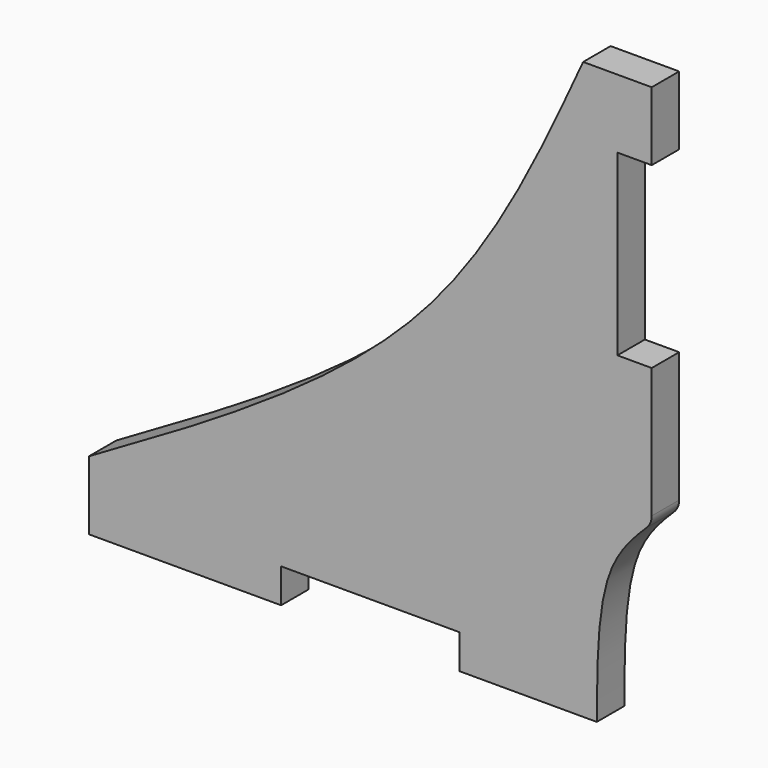
from build123d import *

# Parameters (mm, degrees)
F1_DEPTH = 3.175


with BuildPart() as f1:
    # F0 (on Front) → F1 (new body)
    with BuildSketch(Plane.XZ):
        with BuildLine():
            Line((-26.0459613055, 0), (-8.255, 0))
            Line((-8.255, 0), (-8.255, 3.175))
            Line((-8.255, 3.175), (8.255, 3.175))
            Line((8.255, 3.175), (8.255, 0))
            Line((8.255, 0), (20.955, 0))
            add(Edge.make_bspline(
                [(20.955, 0), (20.9736007659, 4.7706959948), (21.0039408253, 12.5522680544), (24.2599950378, 16.0448016341), (25.5707021463, 17.3285181683)],
                knots=[0, 0, 0, 0, 0.5863679016, 0.9564357243, 0.9564357243, 0.9564357243, 0.9564357243], degree=3))
            ThreePointArc((25.5707021463, 17.3285181683), (25.9142071586, 17.8340267538), (26.035, 18.4331458679))
            Line((26.035, 18.4331458679), (26.035, 30.48))
            Line((26.035, 30.48), (22.8629365507, 30.48))
            Line((22.8629365507, 30.48), (22.8629365507, 46.9999574125))
            Line((22.8629365507, 46.9999574125), (26.035, 46.9999574125))
            Line((26.035, 46.9999574125), (26.035, 53.3499574125))
            Line((26.035, 53.3499574125), (19.6908731014, 53.3499574125))
            add(Edge.make_bspline(
                [(-26.0459613055, 6.35), (-14.6993313754, 12.8784414899), (6.7793902362, 25.2365229805), (15.5524054536, 44.3388670459), (19.6908731014, 53.3499574125)],
                knots=[0, 0, 0, 0, 0.5282730572, 1, 1, 1, 1], degree=3))
            Line((-26.0459613055, 6.35), (-26.0459613055, 0))
        make_face()
    extrude(amount=F1_DEPTH)


solid = f1.part
